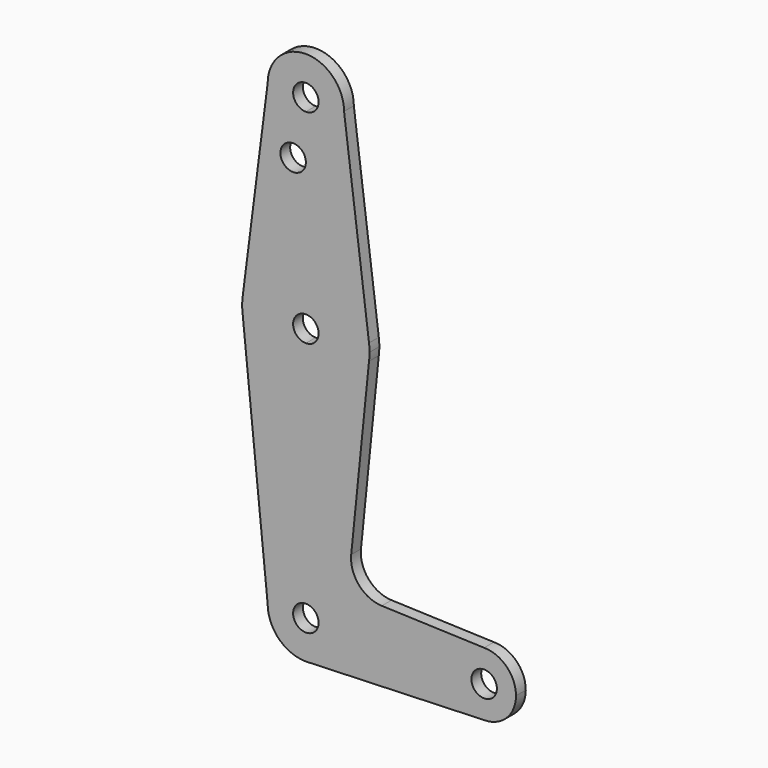
from build123d import *

# Parameters (mm, degrees)
F0_R     = 3.175
F1_DEPTH = 3.048


with BuildPart() as f1:
    # F0 (on Front) → F1 (new body)
    with BuildSketch(Plane.XZ):
        with BuildLine():
            ThreePointArc((3.175, 0), (-2.2450640303, -2.2450640303), (0, 3.175))
            Line((0, 3.175), (0, 9.525))
            ThreePointArc((0, 9.525), (-6.7351920908, 6.7351920908), (-9.525, 0))
            ThreePointArc((-9.525, 0), (-6.7351920908, -6.7351920908), (0, -9.525))
            Line((0, -9.525), (0.6794904459, -9.5007324841))
            ThreePointArc((0.6794904459, -9.5007324841), (6.9712901065, -6.4905114784), (9.525, 0))
            Line((9.525, 0), (3.175, 0))
        make_face()
        with BuildLine():
            ThreePointArc((-9.525, 0), (-6.7351920908, 6.7351920908), (0, 9.525))
            Line((0, 9.525), (0, 47.625))
            ThreePointArc((0, 47.625), (-10.4912828548, 51.5857812233), (-15.7474569047, 61.4917106696))
            Line((-15.7474569047, 61.4917106696), (-9.525, 0))
        make_face()
        with BuildLine():
            Line((0, 47.625), (0, 9.525))
            ThreePointArc((0, 9.525), (6.7351920908, 6.7351920908), (9.525, 0))
            Line((9.525, 0), (36.5125, 0))
            ThreePointArc((36.5125, 0), (38.8373399243, 5.6126600757), (44.45, 7.9375))
            Line((44.45, 7.9375), (18.9314618746, 8.8488763616))
            ThreePointArc((18.9314618746, 8.8488763616), (13.2231606618, 11.5689803321), (11.3054108743, 17.5944184156))
            Line((11.3054108743, 17.5944184156), (15.7474569047, 61.4917106696))
            ThreePointArc((15.7474569047, 61.4917106696), (10.4912828548, 51.5857812233), (0, 47.625))
        make_face()
        with BuildLine():
            Line((36.5125, 0), (9.525, 0))
            ThreePointArc((9.525, 0), (6.9712901065, -6.4905114784), (0.6794904459, -9.5007324841))
            Line((0.6794904459, -9.5007324841), (44.45, -7.9375))
            ThreePointArc((44.45, -7.9375), (38.8373399243, -5.6126600757), (36.5125, 0))
        make_face()
        with BuildLine():
            ThreePointArc((-15.7474569047, 61.4917106696), (-10.4912828548, 51.5857812233), (0, 47.625))
            Line((0, 47.625), (0, 60.325))
            ThreePointArc((0, 60.325), (-3.175, 63.5), (0, 66.675))
            Line((0, 66.675), (0, 79.375))
            ThreePointArc((0, 79.375), (-10.4912828548, 75.4142187767), (-15.7474569047, 65.5082893304))
            ThreePointArc((-15.7474569047, 65.5082893304), (-15.875, 63.5), (-15.7474569047, 61.4917106696))
        make_face()
        with BuildLine():
            Line((0, 60.325), (0, 47.625))
            ThreePointArc((0, 47.625), (10.4912828548, 51.5857812233), (15.7474569047, 61.4917106696))
            ThreePointArc((15.7474569047, 61.4917106696), (15.8430821396, 62.4938323604), (15.875, 63.5))
            ThreePointArc((15.875, 63.5), (15.8430821396, 64.5061676396), (15.7474569047, 65.5082893304))
            ThreePointArc((15.7474569047, 65.5082893304), (10.4912828548, 75.4142187767), (0, 79.375))
            Line((0, 79.375), (0, 66.675))
            ThreePointArc((0, 66.675), (2.2450640303, 65.7450640303), (3.175, 63.5))
            ThreePointArc((3.175, 63.5), (2.2450640303, 61.2549359697), (0, 60.325))
        make_face()
        with BuildLine():
            ThreePointArc((44.45, 7.9375), (38.8373399243, 5.6126600757), (36.5125, 0))
            ThreePointArc((36.5125, 0), (38.8373399243, -5.6126600757), (44.45, -7.9375))
            ThreePointArc((44.45, -7.9375), (50.0626600757, -5.6126600757), (52.3875, 0))
            ThreePointArc((52.3875, 0), (50.0626600757, 5.6126600757), (44.45, 7.9375))
        make_face()
        with BuildLine():
            ThreePointArc((47.625, 0), (44.45, -3.175), (41.275, 0))
            ThreePointArc((41.275, 0), (44.45, 3.175), (47.625, 0))
        make_face(mode=Mode.SUBTRACT)
        with BuildLine():
            ThreePointArc((0, -9.525), (0.3399618281, -9.5189311877), (0.6794904459, -9.5007324841))
            Line((0.6794904459, -9.5007324841), (0, -9.525))
        make_face()
        with BuildLine():
            Line((-9.525, 114.3), (-15.7474569047, 65.5082893304))
            ThreePointArc((-15.7474569047, 65.5082893304), (-10.4912828548, 75.4142187767), (0, 79.375))
            Line((0, 79.375), (0, 100.0252))
            Line((0, 100.0252), (0, 104.775))
            ThreePointArc((0, 104.775), (-6.7351920908, 107.5648079092), (-9.525, 114.3))
        make_face()
        with Locations((-3.175, 100.0252)):
            Circle(F0_R, mode=Mode.SUBTRACT)
        with BuildLine():
            Line((0, 100.0252), (0, 79.375))
            ThreePointArc((0, 79.375), (10.4912828548, 75.4142187767), (15.7474569047, 65.5082893304))
            Line((15.7474569047, 65.5082893304), (9.525, 114.3))
            ThreePointArc((9.525, 114.3), (6.7351920908, 107.5648079092), (0, 104.775))
            Line((0, 104.775), (0, 100.0252))
        make_face()
        with BuildLine():
            ThreePointArc((9.525, 114.3), (0, 123.825), (-9.525, 114.3))
            ThreePointArc((-9.525, 114.3), (-6.7351920908, 107.5648079092), (0, 104.775))
            ThreePointArc((0, 104.775), (6.7351920908, 107.5648079092), (9.525, 114.3))
        make_face()
        with BuildLine():
            ThreePointArc((3.175, 114.3), (2.2450640303, 112.0549359697), (0, 111.125))
            ThreePointArc((0, 111.125), (-2.2450640303, 116.5450640303), (3.175, 114.3))
        make_face(mode=Mode.SUBTRACT)
        with BuildLine():
            Line((0, 9.525), (0, 3.175))
            ThreePointArc((0, 3.175), (2.2450640303, 2.2450640303), (3.175, 0))
            Line((3.175, 0), (9.525, 0))
            ThreePointArc((9.525, 0), (6.7351920908, 6.7351920908), (0, 9.525))
        make_face()
    extrude(amount=F1_DEPTH)


solid = f1.part
